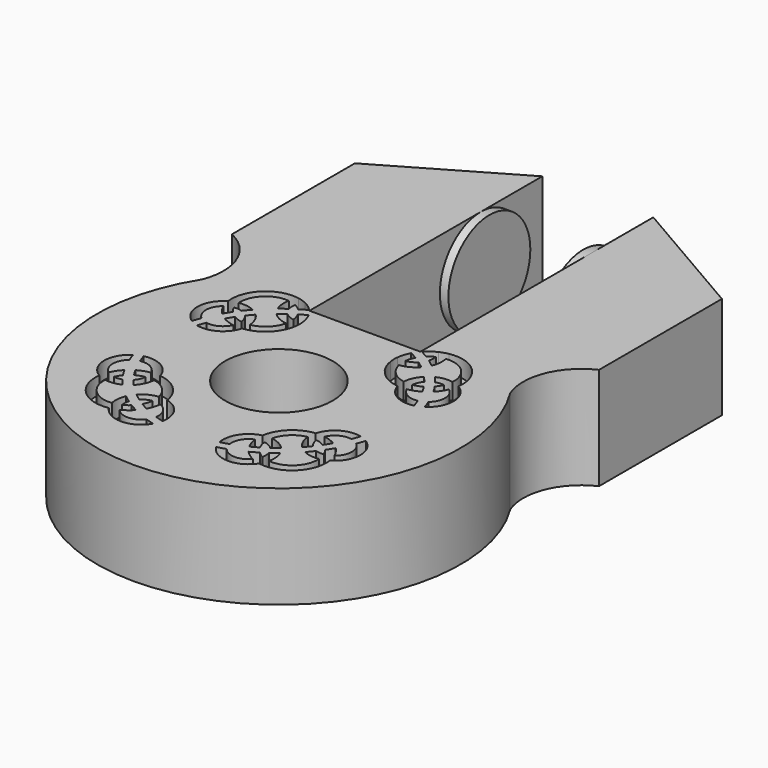
from build123d import *

# Parameters (mm, degrees)
F0_R          = 3.15
F1_DEPTH      = 6
F3_START      = 27.9
F2_R          = 3
F3_DEPTH      = 8.7
F5_DEPTH      = 19
F5_DEPTH_BACK = 25
F6_SIZE2      = 1.5
F6_SIZE       = 2.8
F8_DEPTH      = 5


with BuildPart() as f1:
    # F0 (on Top) → F1 (new body)
    with BuildSketch(Plane.XY):
        with BuildLine():
            Line((29.040071249, 38.9677833527), (29.040071249, 41.0097752675))
            ThreePointArc((29.040071249, 41.0097752675), (25.7590513112, 39.2801717515), (23.2701560445, 36.5302589336))
            ThreePointArc((23.2701560445, 36.5302589336), (32.290071249, 20.2177833527), (41.3099864535, 36.5302589336))
            ThreePointArc((41.3099864535, 36.5302589336), (38.8210911868, 39.2801717515), (35.540071249, 41.0097752675))
            Line((35.540071249, 41.0097752675), (35.540071249, 38.9677833527))
            Line((35.540071249, 38.9677833527), (35.540071249, 38.6679694057))
            Line((35.540071249, 38.6679694057), (29.040071249, 38.6679694057))
            Line((29.040071249, 38.6679694057), (29.040071249, 38.9677833527))
        make_face()
        with BuildLine():
            ThreePointArc((27.8877203609, 23.9150052295), (26.1387830721, 24.4357033031), (25.5405887312, 26.1596730402))
            ThreePointArc((25.5405887312, 26.1596730402), (24.7918203109, 27.4180215943), (25.4719329736, 28.7147644358))
            ThreePointArc((25.4719329736, 28.7147644358), (25.555043347, 28.4673877272), (25.6471257525, 28.2232086931))
            ThreePointArc((25.6471257525, 28.2232086931), (25.2915218496, 27.436279571), (25.6814485039, 26.6657805227))
            ThreePointArc((25.6814485039, 26.6657805227), (25.8613966017, 26.9970899772), (26.1003251005, 27.288741216))
            ThreePointArc((26.1003251005, 27.288741216), (26.2340964048, 27.066774449), (26.3758239621, 26.849801393))
            ThreePointArc((26.3758239621, 26.849801393), (26.2443611547, 26.6684839884), (26.1413601334, 26.4696140296))
            ThreePointArc((26.1413601334, 26.4696140296), (26.3827793564, 26.4625072644), (26.6188610264, 26.5134895396))
            ThreePointArc((26.6188610264, 26.5134895396), (26.781537443, 26.3094332885), (26.951552024, 26.1114494196))
            ThreePointArc((26.951552024, 26.1114494196), (26.4983669469, 25.9726762165), (26.0245067054, 25.9822254328))
            ThreePointArc((26.0245067054, 25.9822254328), (26.4843610596, 24.7970561149), (27.6888633314, 24.3905261448))
            ThreePointArc((27.6888633314, 24.3905261448), (27.6581862138, 24.8634887548), (27.776606132, 25.322412974))
            ThreePointArc((27.776606132, 25.322412974), (27.9819767444, 25.1613990563), (28.1930863622, 25.0079868685))
            ThreePointArc((28.1930863622, 25.0079868685), (28.1526856903, 24.7698660314), (28.1705543294, 24.5290041227))
            ThreePointArc((28.1705543294, 24.5290041227), (28.3646317872, 24.6407735786), (28.539904572, 24.7801935263))
            ThreePointArc((28.539904572, 24.7801935263), (28.7629836753, 24.6482855236), (28.9906966156, 24.5245486079))
            ThreePointArc((28.9906966156, 24.5245486079), (28.7099935253, 24.2728482947), (28.3870407651, 24.0783006469))
            ThreePointArc((28.3870407651, 24.0783006469), (29.1741662683, 23.7231316431), (29.9444497315, 24.1134840037))
            ThreePointArc((29.9444497315, 24.1134840037), (30.1924932194, 24.0323853095), (30.4433309849, 23.9603923549))
            ThreePointArc((30.4433309849, 23.9603923549), (29.1782165702, 23.2231130669), (27.8877203609, 23.9150052295))
        make_face(mode=Mode.SUBTRACT)
        with BuildLine():
            ThreePointArc((26.0992011688, 28.4396919932), (26.0117342514, 28.6757558563), (25.9332650097, 28.9149611807))
            ThreePointArc((25.9332650097, 28.9149611807), (27.0443453453, 28.7555752931), (27.7337409236, 27.8697778501))
            ThreePointArc((27.7337409236, 27.8697778501), (28.9034069718, 27.3265257973), (29.4982933846, 26.1822567673))
            ThreePointArc((29.4982933846, 26.1822567673), (30.4139608782, 25.5330600216), (30.6227498952, 24.4301953337))
            ThreePointArc((30.6227498952, 24.4301953337), (30.3802824064, 24.4979162759), (30.1405518942, 24.5747660682))
            ThreePointArc((30.1405518942, 24.5747660682), (30.01510222, 25.2271891987), (29.508499872, 25.6570119795))
            ThreePointArc((29.508499872, 25.6570119795), (29.4304608021, 25.2858647559), (29.2837607679, 24.9361227681))
            ThreePointArc((29.2837607679, 24.9361227681), (29.0628601776, 25.0533522799), (28.8465235362, 25.1788046088))
            ThreePointArc((28.8465235362, 25.1788046088), (28.9542000767, 25.4381586808), (29.0116486595, 25.7130376222))
            ThreePointArc((29.0116486595, 25.7130376222), (28.709681083, 25.6199408865), (28.4518378479, 25.437271005))
            ThreePointArc((28.4518378479, 25.437271005), (28.2490436993, 25.5864391732), (28.0520408702, 25.7431761963))
            ThreePointArc((28.0520408702, 25.7431761963), (28.4757034232, 26.0619767852), (28.9838127658, 26.2134649705))
            ThreePointArc((28.9838127658, 26.2134649705), (28.5578289844, 26.9651729855), (27.7878674158, 27.3572014345))
            ThreePointArc((27.7878674158, 27.3572014345), (27.6591951693, 26.8428404452), (27.3596101545, 26.4053789117))
            ThreePointArc((27.3596101545, 26.4053789117), (27.1942414713, 26.5951941053), (27.0361757768, 26.7911324765))
            ThreePointArc((27.0361757768, 26.7911324765), (27.2071622612, 27.056867385), (27.2866965118, 27.3626871399))
            ThreePointArc((27.2866965118, 27.3626871399), (27.0146537791, 27.2930342602), (26.7603609728, 27.1738959341))
            ThreePointArc((26.7603609728, 27.1738959341), (26.6253834236, 27.3844212067), (26.4984169232, 27.5998726793))
            ThreePointArc((26.4984169232, 27.5998726793), (26.8412669602, 27.7620275749), (27.2085636751, 27.8565446698))
            ThreePointArc((27.2085636751, 27.8565446698), (26.7565708033, 28.3434697212), (26.0992011688, 28.4396919932))
        make_face(mode=Mode.SUBTRACT)
        with BuildLine():
            ThreePointArc((25.6814485039, 35.0697861827), (25.2915218496, 34.2992871345), (25.6471257525, 33.5123580124))
            ThreePointArc((25.6471257525, 33.5123580124), (25.555043347, 33.2681789783), (25.4719329736, 33.0208022697))
            ThreePointArc((25.4719329736, 33.0208022697), (24.7918203109, 34.3175451112), (25.5405887312, 35.5758936653))
            ThreePointArc((25.5405887312, 35.5758936653), (26.1387830721, 37.2998634024), (27.8877203609, 37.8205614759))
            ThreePointArc((27.8877203609, 37.8205614759), (28.141912802, 37.7527723275), (28.3870407651, 37.6572660586))
            ThreePointArc((28.3870407651, 37.6572660586), (28.7099935253, 37.4627184108), (28.9906966156, 37.2110180976))
            ThreePointArc((28.9906966156, 37.2110180976), (28.7629836753, 37.0872811819), (28.539904572, 36.9553731791))
            ThreePointArc((28.539904572, 36.9553731791), (28.3646317872, 37.0947931268), (28.1705543294, 37.2065625827))
            ThreePointArc((28.1705543294, 37.2065625827), (28.1526856903, 36.965700674), (28.1930863622, 36.727579837))
            ThreePointArc((28.1930863622, 36.727579837), (27.9819767444, 36.5741676492), (27.776606132, 36.4131537315))
            ThreePointArc((27.776606132, 36.4131537315), (27.6581862138, 36.8720779507), (27.6888633314, 37.3450405607))
            ThreePointArc((27.6888633314, 37.3450405607), (26.4843610596, 36.9385105906), (26.0245067054, 35.7533412726))
            ThreePointArc((26.0245067054, 35.7533412726), (26.4983669469, 35.7628904889), (26.951552024, 35.6241172859))
            ThreePointArc((26.951552024, 35.6241172859), (26.781537443, 35.4261334169), (26.6188610264, 35.2220771659))
            ThreePointArc((26.6188610264, 35.2220771659), (26.3827793564, 35.273059441), (26.1413601334, 35.2659526759))
            ThreePointArc((26.1413601334, 35.2659526759), (26.2443611547, 35.0670827171), (26.3758239621, 34.8857653125))
            ThreePointArc((26.3758239621, 34.8857653125), (26.2340964048, 34.6687922565), (26.1003251005, 34.4468254895))
            ThreePointArc((26.1003251005, 34.4468254895), (25.8613966017, 34.7384767282), (25.6814485039, 35.0697861827))
        make_face(mode=Mode.SUBTRACT)
        with BuildLine():
            ThreePointArc((25.9332650097, 32.8206055248), (26.0117342514, 33.0598108491), (26.0992011688, 33.2958747122))
            ThreePointArc((26.0992011688, 33.2958747122), (26.7565708033, 33.3920969842), (27.2085636751, 33.8790220357))
            ThreePointArc((27.2085636751, 33.8790220357), (26.8412669602, 33.9735391306), (26.4984169232, 34.1356940262))
            ThreePointArc((26.4984169232, 34.1356940262), (26.6253834236, 34.3511454987), (26.7603609728, 34.5616707714))
            ThreePointArc((26.7603609728, 34.5616707714), (27.0146537791, 34.4425324453), (27.2866965118, 34.3728795656))
            ThreePointArc((27.2866965118, 34.3728795656), (27.2071622612, 34.6786993204), (27.0361757768, 34.944434229))
            ThreePointArc((27.0361757768, 34.944434229), (27.1942414713, 35.1403726001), (27.3596101545, 35.3301877938))
            ThreePointArc((27.3596101545, 35.3301877938), (27.6591951693, 34.8927262603), (27.7878674158, 34.378365271))
            ThreePointArc((27.7878674158, 34.378365271), (28.5578289844, 34.7703937199), (28.9838127658, 35.522101735))
            ThreePointArc((28.9838127658, 35.522101735), (28.4757034232, 35.6735899203), (28.0520408702, 35.9923905092))
            ThreePointArc((28.0520408702, 35.9923905092), (28.2490436993, 36.1491275323), (28.4518378479, 36.2982957004))
            ThreePointArc((28.4518378479, 36.2982957004), (28.709681083, 36.1156258189), (29.0116486595, 36.0225290833))
            ThreePointArc((29.0116486595, 36.0225290833), (28.9542000767, 36.2974080246), (28.8465235362, 36.5567620967))
            ThreePointArc((28.8465235362, 36.5567620967), (29.0628601776, 36.6822144255), (29.2837607679, 36.7994439374))
            ThreePointArc((29.2837607679, 36.7994439374), (29.4304608021, 36.4497019496), (29.508499872, 36.078554726))
            ThreePointArc((29.508499872, 36.078554726), (29.5239740893, 35.8155324736), (29.4982933846, 35.5533099382))
            ThreePointArc((29.4982933846, 35.5533099382), (28.9034069718, 34.4090409082), (27.7337409236, 33.8657888553))
            ThreePointArc((27.7337409236, 33.8657888553), (27.0443453453, 32.9799914124), (25.9332650097, 32.8206055248))
        make_face(mode=Mode.SUBTRACT)
        with BuildLine():
            ThreePointArc((36.1931017329, 24.0783006469), (35.8701489727, 24.2728482947), (35.5894458824, 24.5245486079))
            ThreePointArc((35.5894458824, 24.5245486079), (35.8171588227, 24.6482855236), (36.040237926, 24.7801935263))
            ThreePointArc((36.040237926, 24.7801935263), (36.2155107108, 24.6407735786), (36.4095881687, 24.5290041227))
            ThreePointArc((36.4095881687, 24.5290041227), (36.4274568077, 24.7698660314), (36.3870561358, 25.0079868685))
            ThreePointArc((36.3870561358, 25.0079868685), (36.5981657536, 25.1613990563), (36.803536366, 25.322412974))
            ThreePointArc((36.803536366, 25.322412974), (36.9219562842, 24.8634887548), (36.8912791666, 24.3905261448))
            ThreePointArc((36.8912791666, 24.3905261448), (38.0957814384, 24.7970561149), (38.5556357926, 25.9822254328))
            ThreePointArc((38.5556357926, 25.9822254328), (38.0817755512, 25.9726762165), (37.6285904741, 26.1114494196))
            ThreePointArc((37.6285904741, 26.1114494196), (37.798605055, 26.3094332885), (37.9612814716, 26.5134895396))
            ThreePointArc((37.9612814716, 26.5134895396), (38.1973631417, 26.4625072644), (38.4387823646, 26.4696140296))
            ThreePointArc((38.4387823646, 26.4696140296), (38.3357813433, 26.6684839884), (38.2043185359, 26.849801393))
            ThreePointArc((38.2043185359, 26.849801393), (38.3460460932, 27.066774449), (38.4798173975, 27.288741216))
            ThreePointArc((38.4798173975, 27.288741216), (38.7187458963, 26.9970899772), (38.8986939941, 26.6657805227))
            ThreePointArc((38.8986939941, 26.6657805227), (39.2886206485, 27.436279571), (38.9330167455, 28.2232086931))
            ThreePointArc((38.9330167455, 28.2232086931), (39.025099151, 28.4673877272), (39.1082095245, 28.7147644358))
            ThreePointArc((39.1082095245, 28.7147644358), (39.7883221871, 27.4180215943), (39.0395537668, 26.1596730402))
            ThreePointArc((39.0395537668, 26.1596730402), (38.4413594259, 24.4357033031), (36.6924221371, 23.9150052295))
            ThreePointArc((36.6924221371, 23.9150052295), (35.4019259278, 23.2231130669), (34.1368115131, 23.9603923549))
            ThreePointArc((34.1368115131, 23.9603923549), (34.3876492786, 24.0323853095), (34.6356927665, 24.1134840037))
            ThreePointArc((34.6356927665, 24.1134840037), (35.4059762297, 23.7231316431), (36.1931017329, 24.0783006469))
        make_face(mode=Mode.SUBTRACT)
        with BuildLine():
            ThreePointArc((38.0817255749, 27.5998726793), (37.9547590745, 27.3844212067), (37.8197815252, 27.1738959341))
            ThreePointArc((37.8197815252, 27.1738959341), (37.5654887189, 27.2930342602), (37.2934459862, 27.3626871399))
            ThreePointArc((37.2934459862, 27.3626871399), (37.3729802368, 27.056867385), (37.5439667213, 26.7911324765))
            ThreePointArc((37.5439667213, 26.7911324765), (37.3859010267, 26.5951941053), (37.2205323435, 26.4053789117))
            ThreePointArc((37.2205323435, 26.4053789117), (36.9209473288, 26.8428404452), (36.7922750823, 27.3572014345))
            ThreePointArc((36.7922750823, 27.3572014345), (36.0223135136, 26.9651729855), (35.5963297322, 26.2134649705))
            ThreePointArc((35.5963297322, 26.2134649705), (36.1044390748, 26.0619767852), (36.5281016279, 25.7431761963))
            ThreePointArc((36.5281016279, 25.7431761963), (36.3310987987, 25.5864391732), (36.1283046501, 25.437271005))
            ThreePointArc((36.1283046501, 25.437271005), (35.8704614151, 25.6199408865), (35.5684938385, 25.7130376222))
            ThreePointArc((35.5684938385, 25.7130376222), (35.6259424213, 25.4381586808), (35.7336189619, 25.1788046088))
            ThreePointArc((35.7336189619, 25.1788046088), (35.5172823204, 25.0533522799), (35.2963817301, 24.9361227681))
            ThreePointArc((35.2963817301, 24.9361227681), (35.1496816959, 25.2858647559), (35.071642626, 25.6570119795))
            ThreePointArc((35.071642626, 25.6570119795), (34.565040278, 25.2271891987), (34.4395906038, 24.5747660682))
            ThreePointArc((34.4395906038, 24.5747660682), (34.1998600916, 24.4979162759), (33.9573926028, 24.4301953337))
            ThreePointArc((33.9573926028, 24.4301953337), (34.1661816199, 25.5330600216), (35.0818491134, 26.1822567673))
            ThreePointArc((35.0818491134, 26.1822567673), (35.6767355262, 27.3265257973), (36.8464015744, 27.8697778501))
            ThreePointArc((36.8464015744, 27.8697778501), (37.5357971527, 28.7555752931), (38.6468774883, 28.9149611807))
            ThreePointArc((38.6468774883, 28.9149611807), (38.5684082466, 28.6757558563), (38.4809413292, 28.4396919932))
            ThreePointArc((38.4809413292, 28.4396919932), (37.8235716947, 28.3434697212), (37.3715788229, 27.8565446698))
            ThreePointArc((37.3715788229, 27.8565446698), (37.7388755379, 27.7620275749), (38.0817255749, 27.5998726793))
        make_face(mode=Mode.SUBTRACT)
        with Locations((32.290071249, 30.8677833527)):
            Circle(F0_R, mode=Mode.SUBTRACT)
        with BuildLine():
            ThreePointArc((37.3715788229, 33.8790220357), (37.8235716947, 33.3920969842), (38.4809413292, 33.2958747122))
            ThreePointArc((38.4809413292, 33.2958747122), (38.5684082466, 33.0598108491), (38.6468774883, 32.8206055248))
            ThreePointArc((38.6468774883, 32.8206055248), (37.5357971527, 32.9799914124), (36.8464015744, 33.8657888553))
            ThreePointArc((36.8464015744, 33.8657888553), (35.6767355262, 34.4090409082), (35.0818491134, 35.5533099382))
            ThreePointArc((35.0818491134, 35.5533099382), (35.056031953, 35.815529822), (35.071642626, 36.078554726))
            ThreePointArc((35.071642626, 36.078554726), (35.1496816959, 36.4497019496), (35.2963817301, 36.7994439374))
            ThreePointArc((35.2963817301, 36.7994439374), (35.5172823204, 36.6822144255), (35.7336189619, 36.5567620967))
            ThreePointArc((35.7336189619, 36.5567620967), (35.6259424213, 36.2974080246), (35.5684938385, 36.0225290833))
            ThreePointArc((35.5684938385, 36.0225290833), (35.8704614151, 36.1156258189), (36.1283046501, 36.2982957004))
            ThreePointArc((36.1283046501, 36.2982957004), (36.3310987987, 36.1491275323), (36.5281016279, 35.9923905092))
            ThreePointArc((36.5281016279, 35.9923905092), (36.1044390748, 35.6735899203), (35.5963297322, 35.522101735))
            ThreePointArc((35.5963297322, 35.522101735), (36.0223135136, 34.7703937199), (36.7922750823, 34.378365271))
            ThreePointArc((36.7922750823, 34.378365271), (36.9209473288, 34.8927262603), (37.2205323435, 35.3301877938))
            ThreePointArc((37.2205323435, 35.3301877938), (37.3859010267, 35.1403726001), (37.5439667213, 34.944434229))
            ThreePointArc((37.5439667213, 34.944434229), (37.3729802368, 34.6786993204), (37.2934459862, 34.3728795656))
            ThreePointArc((37.2934459862, 34.3728795656), (37.5654887189, 34.4425324453), (37.8197815252, 34.5616707714))
            ThreePointArc((37.8197815252, 34.5616707714), (37.9547590745, 34.3511454987), (38.0817255749, 34.1356940262))
            ThreePointArc((38.0817255749, 34.1356940262), (37.7388755379, 33.9735391306), (37.3715788229, 33.8790220357))
        make_face(mode=Mode.SUBTRACT)
        with BuildLine():
            ThreePointArc((37.9612814716, 35.2220771659), (37.798605055, 35.4261334169), (37.6285904741, 35.6241172859))
            ThreePointArc((37.6285904741, 35.6241172859), (38.0817755512, 35.7628904889), (38.5556357926, 35.7533412726))
            ThreePointArc((38.5556357926, 35.7533412726), (38.0957814384, 36.9385105906), (36.8912791666, 37.3450405607))
            ThreePointArc((36.8912791666, 37.3450405607), (36.9219562842, 36.8720779507), (36.803536366, 36.4131537315))
            ThreePointArc((36.803536366, 36.4131537315), (36.5981657536, 36.5741676492), (36.3870561358, 36.727579837))
            ThreePointArc((36.3870561358, 36.727579837), (36.4274568077, 36.965700674), (36.4095881687, 37.2065625827))
            ThreePointArc((36.4095881687, 37.2065625827), (36.2155107108, 37.0947931268), (36.040237926, 36.9553731791))
            ThreePointArc((36.040237926, 36.9553731791), (35.8171588227, 37.0872811819), (35.5894458824, 37.2110180976))
            ThreePointArc((35.5894458824, 37.2110180976), (35.8701489727, 37.4627184108), (36.1931017329, 37.6572660586))
            ThreePointArc((36.1931017329, 37.6572660586), (36.4375310642, 37.7549085853), (36.6924221371, 37.8205614759))
            ThreePointArc((36.6924221371, 37.8205614759), (38.4413594259, 37.2998634024), (39.0395537668, 35.5758936653))
            ThreePointArc((39.0395537668, 35.5758936653), (39.7883221871, 34.3175451112), (39.1082095245, 33.0208022697))
            ThreePointArc((39.1082095245, 33.0208022697), (39.025099151, 33.2681789783), (38.9330167455, 33.5123580124))
            ThreePointArc((38.9330167455, 33.5123580124), (39.2886206485, 34.2992871345), (38.8986939941, 35.0697861827))
            ThreePointArc((38.8986939941, 35.0697861827), (38.7187458963, 34.7384767282), (38.4798173975, 34.4468254895))
            ThreePointArc((38.4798173975, 34.4468254895), (38.3460460932, 34.6687922565), (38.2043185359, 34.8857653125))
            ThreePointArc((38.2043185359, 34.8857653125), (38.3357813433, 35.0670827171), (38.4387823646, 35.2659526759))
            ThreePointArc((38.4387823646, 35.2659526759), (38.1973631417, 35.273059441), (37.9612814716, 35.2220771659))
        make_face(mode=Mode.SUBTRACT)
        with BuildLine():
            ThreePointArc((23.2701560445, 36.5302589336), (25.7590513112, 39.2801717515), (29.040071249, 41.0097752675))
            Line((29.040071249, 41.0097752675), (29.040071249, 54.2177833527))
            Line((29.040071249, 54.2177833527), (21.540071249, 49.8677833527))
            Line((21.540071249, 49.8677833527), (21.540071249, 40.8677833527))
            ThreePointArc((21.540071249, 40.8677833527), (23.2675678368, 39.0430235595), (23.2701560445, 36.5302589336))
        make_face()
        with BuildLine():
            ThreePointArc((35.540071249, 41.0097752675), (38.8210911868, 39.2801717515), (41.3099864535, 36.5302589336))
            ThreePointArc((41.3099864535, 36.5302589336), (41.3125746612, 39.0430235595), (43.040071249, 40.8677833527))
            Line((43.040071249, 40.8677833527), (43.040071249, 49.8677833527))
            Line((43.040071249, 49.8677833527), (35.540071249, 54.2177833527))
            Line((35.540071249, 54.2177833527), (35.540071249, 41.0097752675))
        make_face()
    extrude(amount=F1_DEPTH)

    # F2 (on Right) → F3 (join)
    with BuildSketch(Plane.YZ.offset(F3_START)):
        with Locations((49.7152134776, 2.999961609)):
            Circle(F2_R)
    extrude(amount=F3_DEPTH)

    # F4 (on Top) → F5 (cut, two sides)
    with BuildSketch(Plane.XY) as f5_sk:
        Polygon((29.5400758386, 54.138854146), (29.5400758386, 49.4925267994), (29.5400758386, 45.9514074028), (35.0378900766, 45.9514074028), (35.0378900766, 54.138854146), align=None)
    extrude(amount=F5_DEPTH, mode=Mode.SUBTRACT)
    extrude(f5_sk.sketch, amount=-F5_DEPTH_BACK, mode=Mode.SUBTRACT)

    # F6
    f6_edges = [f1.edges().sort_by_distance(p)[0] for p in [
        (32.290071, 38.667969, 6),
        (32.290071, 38.667969, 0),
    ]]
    f6_side = f1.faces().sort_by_distance((32.290071, 38.667969, 3))[0]
    chamfer(f6_edges, length=F6_SIZE, length2=F6_SIZE2, reference=f6_side)

    # F7 (on Top) → F8 (join)
    with BuildSketch(Plane.XY):
        with BuildLine():
            add(Edge.make_bspline(
                [(33.5106216532, 21.5394316362), (36.8481511848, 18.9290523564), (40.3035287883, 26.7857713521), (43.7589063919, 34.6424903478), (36.9659992567, 29.396150632), (30.1730921216, 24.1498109161), (33.5106216532, 21.5394316362)],
                knots=[0, 0, 0, 2.0943951024, 2.0943951024, 4.1887902048, 4.1887902048, 6.2831853072, 6.2831853072, 6.2831853072], degree=2, weights=[1, 0.5, 1, 0.5, 1, 0.5, 1]))
        make_face()
        with BuildLine():
            add(Edge.make_bspline(
                [(31.4758867025, 22.711051628), (34.5086083089, 26.4593597644), (27.0318118992, 29.4077392739), (19.5550154895, 32.3561187834), (23.9990902928, 25.6594311375), (28.4431650962, 18.9627434916), (31.4758867025, 22.711051628)],
                knots=[0, 0, 0, 2.0943951024, 2.0943951024, 4.1887902048, 4.1887902048, 6.2831853072, 6.2831853072, 6.2831853072], degree=2, weights=[1, 0.5, 1, 0.5, 1, 0.5, 1]))
        make_face()
        with BuildLine():
            ThreePointArc((28.1337571884, 33.917754509), (29.1508516542, 34.6535744282), (29.5395830538, 35.8472242951))
            ThreePointArc((29.5395830538, 35.8472242951), (27.6881624717, 37.8665997212), (25.5160112545, 36.1970505686))
            ThreePointArc((25.5160112545, 36.1970505686), (27.3316307663, 35.9461079391), (28.1744664232, 34.3185101785))
            ThreePointArc((28.1744664232, 34.3185101785), (28.1642629949, 34.117101174), (28.1337571884, 33.917754509))
        make_face()
        with BuildLine():
            ThreePointArc((28.1744664232, 34.3185101785), (27.3316307663, 35.9461079391), (25.5160112545, 36.1970505686))
            ThreePointArc((25.5160112545, 36.1970505686), (26.1815236785, 34.3185101785), (28.1337571884, 33.917754509))
            ThreePointArc((28.1337571884, 33.917754509), (28.1642629949, 34.117101174), (28.1744664232, 34.3185101785))
        make_face()
        with BuildLine():
            ThreePointArc((28.1337571884, 33.917754509), (26.1815236785, 34.3185101785), (25.5160112545, 36.1970505686))
            ThreePointArc((25.5160112545, 36.1970505686), (24.8728180508, 32.8154764584), (28.1337571884, 33.917754509))
        make_face()
        with BuildLine():
            ThreePointArc((36.4991663645, 33.9351005551), (38.2557848659, 34.2635865949), (39.0523152121, 35.8633212745))
            ThreePointArc((39.0523152121, 35.8633212745), (39.0518543965, 35.9063024743), (39.0504721614, 35.9492639141))
            ThreePointArc((39.0504721614, 35.9492639141), (37.1586892379, 35.7226234524), (36.4991663645, 33.9351005551))
        make_face()
        with BuildLine():
            ThreePointArc((39.0504721614, 35.9492639141), (39.0518543965, 35.9063024743), (39.0523152121, 35.8633212745))
            ThreePointArc((39.0523152121, 35.8633212745), (38.2557848659, 34.2635865949), (36.4991663645, 33.9351005551))
            ThreePointArc((36.4991663645, 33.9351005551), (38.4680359328, 32.4731364861), (40.1152487751, 34.2898577547))
            ThreePointArc((40.1152487751, 34.2898577547), (39.8261643395, 35.2756794981), (39.0504721614, 35.9492639141))
        make_face()
        with BuildLine():
            ThreePointArc((36.4991663645, 33.9351005551), (37.1586892379, 35.7226234524), (39.0504721614, 35.9492639141))
            ThreePointArc((39.0504721614, 35.9492639141), (35.8054210524, 37.4367847943), (36.4991663645, 33.9351005551))
        make_face()
    extrude(amount=F8_DEPTH)


solid = f1.part
